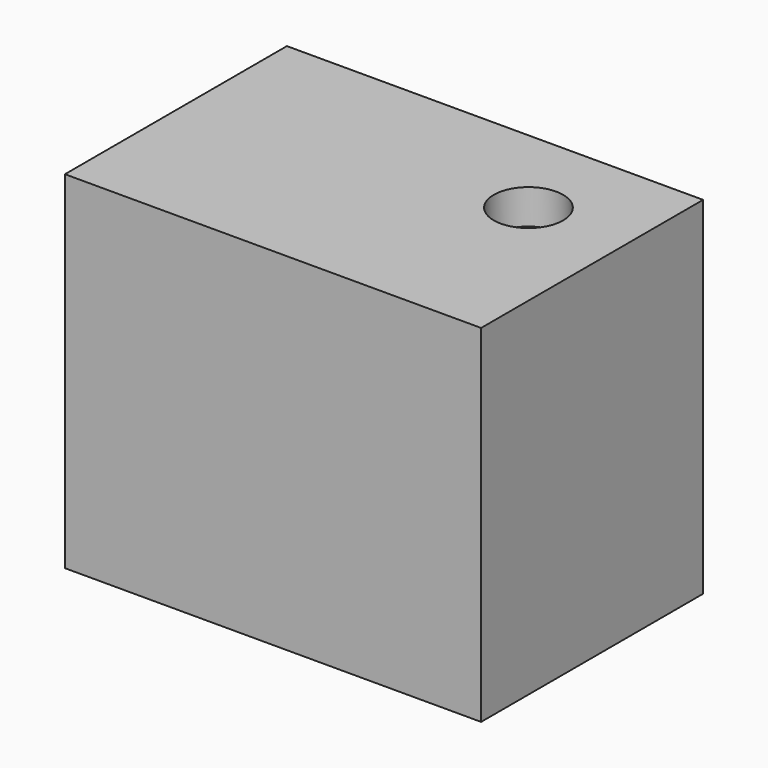
from build123d import *

# Parameters (mm, degrees)
F0_W     = 300
F0_H     = 200
F1_DEPTH = 250
F2_T     = -25
F4_D     = 50


with BuildPart() as f1:
    # F0 (on Top) → F1 (new body)
    with BuildSketch(Plane.XY):
        Rectangle(F0_W, F0_H)
    extrude(amount=F1_DEPTH)

    # F2
    f2_openings = [f1.faces().sort_by_distance(p)[0] for p in [
        (0, 0, 0),
    ]]
    offset(amount=F2_T, openings=f2_openings)

    # F4 (through all)
    with Locations(Plane.XY.offset(250)):
        with Locations((79.174198, 31.202247)):
            Hole(F4_D / 2)


solid = f1.part
